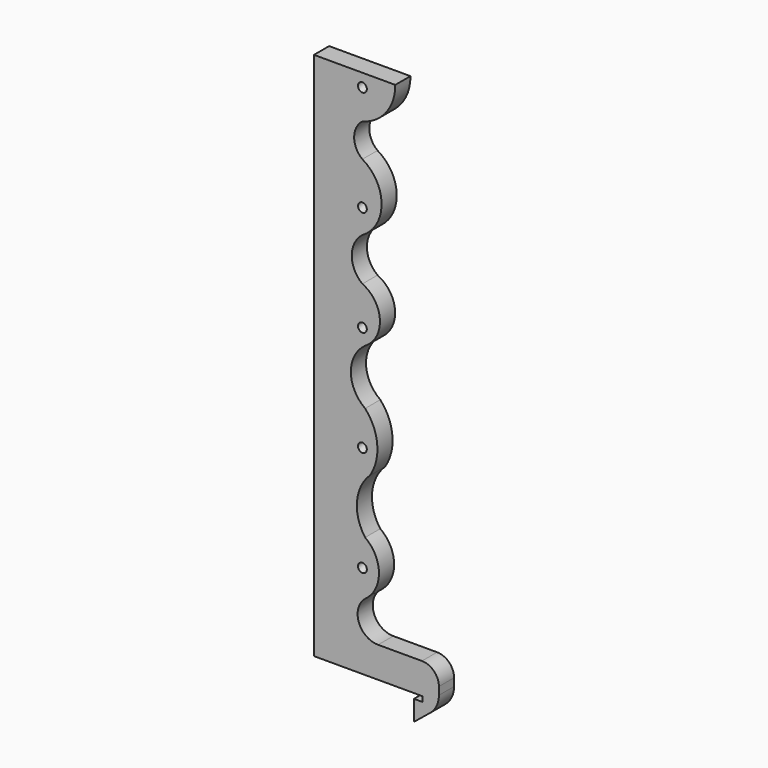
from build123d import *

# Parameters (mm, degrees)
F11_DEPTH = 5.59188
F4_R      = 1.3
F5_R      = 1.3
F9_R      = 1.3
F6_R      = 1.3
F10_R     = 1.3
F12_DEPTH = 12.5
F13_R     = 5
F14_R     = 7


with BuildPart() as f11:
    # F0 (on Front) → F11 (new body)
    with BuildSketch(Plane.XZ):
        with BuildLine():
            Line((5.074043, 125.446646), (-18.925957, 125.446646))
            Line((-18.925957, 125.446646), (-18.925957, -30.753354))
            Line((-18.925957, -30.753354), (13.074043, -30.753354))
            Line((13.074043, -30.753354), (13.074043, -32.253354))
            Line((13.074043, -32.253354), (10.574043, -32.253354))
            Line((10.574043, -32.253354), (10.574043, -38.253354))
            Line((10.574043, -38.253354), (17.939503, -32.253354))
            Line((17.939503, -32.253354), (17.939503, -21.653354))
            Line((17.939503, -21.653354), (0, -21.653354))
            ThreePointArc((0, -21.653354), (-5.66883, -17.703115), (-3.925964, -11.017126))
            ThreePointArc((-3.925964, -11.017126), (0.25929, -3.046463), (-3.820934, 4.978473))
            ThreePointArc((-3.820934, 4.978473), (-6.236981, 13.558536), (-2.382879, 21.59599))
            ThreePointArc((-2.382879, 21.59599), (-0.24316, 30.291685), (-3.820934, 38.501012))
            ThreePointArc((-3.820934, 38.501012), (-8.035456, 46.644288), (-3.820934, 54.787565))
            ThreePointArc((-3.820934, 54.787565), (0.543337, 62.931922), (-4.625957, 70.590631))
            ThreePointArc((-4.625957, 70.590631), (-7.774459, 76.938306), (-4.625957, 83.285981))
            ThreePointArc((-4.625957, 83.285981), (1.031725, 93.12844), (-4.625957, 102.970899))
            ThreePointArc((-4.625957, 102.970899), (-7.063194, 107.892131), (-4.625957, 112.813362))
            ThreePointArc((-4.625957, 112.813362), (2.40535, 117.455168), (5.074043, 125.446646))
        make_face()
    extrude(amount=F11_DEPTH)

    # F4 (on face) + F5 (on face) + F9 (on face) + F6 (on face) + F10 (on face) → F12 (cut, symmetric)
    with BuildSketch(Plane(origin=(0, -0.41406, -0.097651), x_dir=(-1, 0, 0), z_dir=(0, 0.973299, 0.22954))):
        with Locations((4.625957, -1.803868)):
            Circle(F4_R)
    with BuildSketch(Plane(origin=(0, 6.556371, 1.546236), x_dir=(-1, 0, 0), z_dir=(0, 0.973299, 0.22954))):
        with Locations((4.625957, 28.563067)):
            Circle(F5_R)
    with BuildSketch(Plane(origin=(0, 20.497232, 4.83401), x_dir=(-1, 0, 0), z_dir=(0, 0.973299, 0.22954))):
        with Locations((4.625957, 89.296936)):
            Circle(F9_R)
    with BuildSketch(Plane(origin=(0, 13.526801, 3.190123), x_dir=(-1, 0, 0), z_dir=(0, 0.973299, 0.22954))):
        with Locations((4.625957, 58.930002)):
            Circle(F6_R)
    with BuildSketch(Plane(origin=(0, 27.467663, 6.477897), x_dir=(-1, 0, 0), z_dir=(0, 0.973299, 0.22954))):
        with Locations((4.625957, 119.663871)):
            Circle(F10_R)
    extrude(amount=F12_DEPTH, both=True, mode=Mode.SUBTRACT)

    # F13
    f13_edges = [f11.edges().sort_by_distance(p)[0] for p in [
        (17.939503, -2.79594, -21.653354),
    ]]
    fillet(f13_edges, radius=F13_R)

    # F14
    f14_edges = [f11.edges().sort_by_distance(p)[0] for p in [
        (17.939503, -2.79594, -32.253354),
    ]]
    fillet(f14_edges, radius=F14_R)


solid = f11.part
